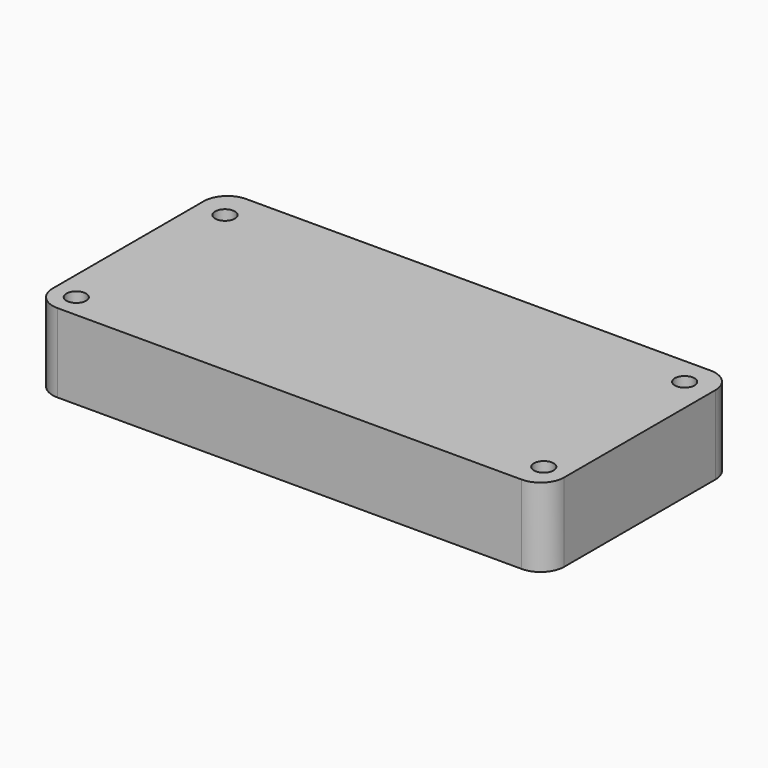
from build123d import *

# Parameters (mm, degrees)
F1_DEPTH = 10
F3_D     = 2.5


with BuildPart() as f1:
    # F0 (on Top) → F1 (new body)
    with BuildSketch(Plane.XY):
        with BuildLine():
            Line((23.693942, 18.064779), (-35.306058, 18.064779))
            ThreePointArc((-35.306058, 18.064779), (-37.427379, 17.186099), (-38.306058, 15.064779))
            Line((-38.306058, 15.064779), (-38.306058, -8.935221))
            ThreePointArc((-38.306058, -8.935221), (-37.427379, -11.056541), (-35.306058, -11.935221))
            Line((-35.306058, -11.935221), (23.693942, -11.935221))
            ThreePointArc((23.693942, -11.935221), (25.815262, -11.056541), (26.693942, -8.935221))
            Line((26.693942, -8.935221), (26.693942, 15.064779))
            ThreePointArc((26.693942, 15.064779), (25.815262, 17.186099), (23.693942, 18.064779))
        make_face()
    extrude(amount=F1_DEPTH)

    # F3 (through all)
    with Locations(Plane.XY.offset(10)):
        with Locations((-34.806058, 14.064779), (-35.306058, -8.935221), (23.193942, 14.564779), (23.693942, -8.435221)):
            Hole(F3_D / 2)


solid = f1.part
